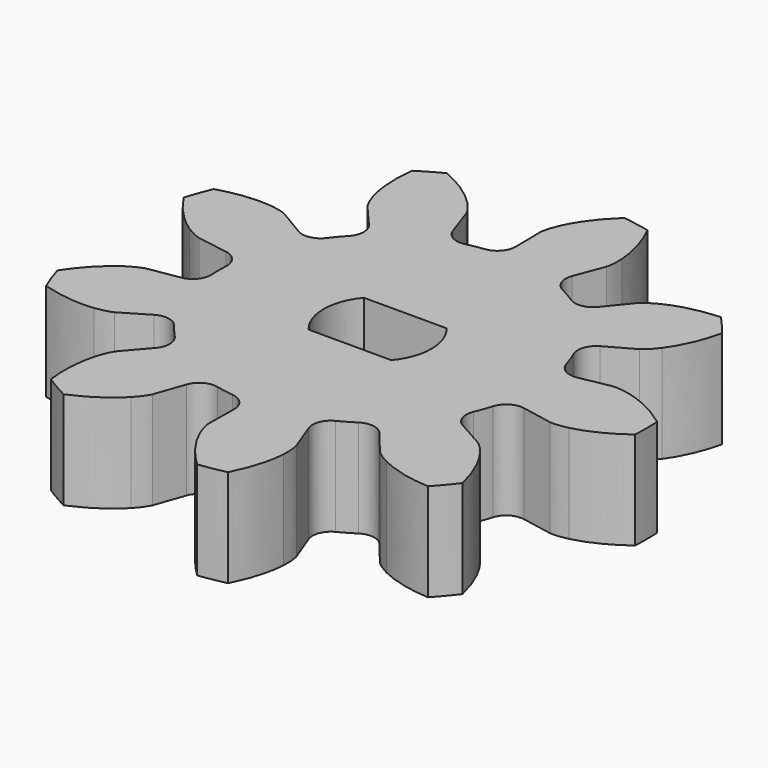
from build123d import *

# Parameters (mm, degrees)
PAD_DEPTH    = 5
POCKET_DEPTH = 5


with BuildPart() as part:
    # InvoluteGear → Pad (new body)
    with BuildSketch(Plane.XY):
        with BuildLine():
            Line((8.852623, -1.69737), (10.420804, -1.995741))
            add(Edge.make_bspline(
                [(10.420804, -1.995741), (10.519573, -2.006112), (10.815555, -2.020759), (11.317457, -1.904677)],
                knots=[0, 0, 0, 0, 1, 1, 1, 1], degree=3))
            add(Edge.make_bspline(
                [(11.317457, -1.904677), (11.912322, -1.762077), (12.752409, -1.436176), (13.735982, -0.706051)],
                knots=[0, 0, 0, 0, 1, 1, 1, 1], degree=3))
            ThreePointArc((13.735982, -0.706051), (13.754121, 0), (13.735982, 0.706051))
            add(Edge.make_bspline(
                [(13.735982, 0.706051), (12.752409, 1.436176), (11.912322, 1.762077), (11.317457, 1.904677)],
                knots=[0, 0, 0, 0, 1, 1, 1, 1], degree=3))
            add(Edge.make_bspline(
                [(11.317457, 1.904677), (10.815555, 2.020759), (10.519573, 2.006112), (10.420804, 1.995741)],
                knots=[0, 0, 0, 0, 1, 1, 1, 1], degree=3))
            Line((10.420804, 1.995741), (8.852623, 1.69737))
            ThreePointArc((8.852623, 1.69737), (8.192669, 1.814836), (7.779854, 2.342966))
            ThreePointArc((7.779854, 2.342966), (7.635003, 2.778914), (7.465744, 3.205978))
            ThreePointArc((7.465744, 3.205978), (7.442503, 3.875901), (7.872551, 4.390096))
            Line((7.872551, 4.390096), (9.265636, 5.169537))
            add(Edge.make_bspline(
                [(9.265636, 5.169537), (9.347965, 5.22508), (9.584115, 5.404113), (9.893977, 5.815654)],
                knots=[0, 0, 0, 0, 1, 1, 1, 1], degree=3))
            add(Edge.make_bspline(
                [(9.893977, 5.815654), (10.258009, 6.307264), (10.692068, 7.096916), (10.976213, 8.288452)],
                knots=[0, 0, 0, 0, 1, 1, 1, 1], degree=3))
            ThreePointArc((10.976213, 8.288452), (10.536268, 8.840979), (10.068531, 9.370185))
            add(Edge.make_bspline(
                [(10.068531, 9.370185), (8.845756, 9.297265), (7.992727, 9.006922), (7.445372, 8.733788)],
                knots=[0, 0, 0, 0, 1, 1, 1, 1], degree=3))
            add(Edge.make_bspline(
                [(7.445372, 8.733788), (6.986277, 8.500096), (6.768956, 8.298623), (6.699961, 8.22719)],
                knots=[0, 0, 0, 0, 1, 1, 1, 1], degree=3))
            Line((6.699961, 8.22719), (5.690454, 6.990617))
            ThreePointArc((5.690454, 6.990617), (5.109395, 6.656392), (4.453685, 6.79561))
            ThreePointArc((4.453685, 6.79561), (4.0625, 7.036456), (3.658329, 7.254809))
            ThreePointArc((3.658329, 7.254809), (3.209907, 7.753061), (3.208825, 8.423387))
            Line((3.208825, 8.423387), (3.774975, 9.915932))
            add(Edge.make_bspline(
                [(3.774975, 9.915932), (3.80234, 10.011399), (3.868161, 10.300341), (3.840996, 10.814775)],
                knots=[0, 0, 0, 0, 1, 1, 1, 1], degree=3))
            add(Edge.make_bspline(
                [(3.840996, 10.814775), (3.80386, 11.425366), (3.62879, 12.309282), (3.080553, 13.404697)],
                knots=[0, 0, 0, 0, 1, 1, 1, 1], degree=3))
            ThreePointArc((3.080553, 13.404697), (2.388378, 13.545165), (1.689904, 13.649906))
            add(Edge.make_bspline(
                [(1.689904, 13.649906), (0.800076, 12.808061), (0.333246, 12.037328), (0.089515, 11.476263)],
                knots=[0, 0, 0, 0, 1, 1, 1, 1], degree=3))
            add(Edge.make_bspline(
                [(0.089515, 11.476263), (-0.111958, 11.002143), (-0.14893, 10.708115), (-0.155867, 10.609045)],
                knots=[0, 0, 0, 0, 1, 1, 1, 1], degree=3))
            Line((-0.155867, 10.609045), (-0.134341, 9.012877))
            ThreePointArc((-0.134341, 9.012877), (-0.364623, 8.383347), (-0.956414, 8.068513))
            ThreePointArc((-0.956414, 8.068513), (-1.410891, 8.001563), (-1.860859, 7.909035))
            ThreePointArc((-1.860859, 7.909035), (-2.52464, 8.002478), (-2.956346, 8.515281))
            Line((-2.956346, 8.515281), (-3.48204, 10.022551))
            add(Edge.make_bspline(
                [(-3.48204, 10.022551), (-3.522442, 10.113274), (-3.657749, 10.376925), (-4.00923, 10.753543)],
                knots=[0, 0, 0, 0, 1, 1, 1, 1], degree=3))
            add(Edge.make_bspline(
                [(-4.00923, 10.753543), (-4.430158, 11.197412), (-5.13244, 11.761998), (-6.256533, 12.248735)],
                knots=[0, 0, 0, 0, 1, 1, 1, 1], degree=3))
            ThreePointArc((-6.256533, 12.248735), (-6.877061, 11.911418), (-7.479449, 11.542683))
            add(Edge.make_bspline(
                [(-7.479449, 11.542683), (-7.619969, 10.325822), (-7.482164, 9.435335), (-7.308227, 8.848867)],
                knots=[0, 0, 0, 0, 1, 1, 1, 1], degree=3))
            add(Edge.make_bspline(
                [(-7.308227, 8.848867), (-7.157806, 8.356166), (-6.997131, 8.107161), (-6.938764, 8.026811)],
                knots=[0, 0, 0, 0, 1, 1, 1, 1], degree=3))
            Line((-6.938764, 8.026811), (-5.896277, 6.817911))
            ThreePointArc((-5.896277, 6.817911), (-5.668029, 6.187642), (-5.918995, 5.566069))
            ThreePointArc((-5.918995, 5.566069), (-6.224111, 5.222649), (-6.50933, 4.862535))
            ThreePointArc((-6.50933, 4.862535), (-7.07788, 4.507446), (-7.73821, 4.622782))
            Line((-7.73821, 4.622782), (-9.109769, 5.439508))
            add(Edge.make_bspline(
                [(-9.109769, 5.439508), (-9.199034, 5.483035), (-9.472157, 5.59803), (-9.983493, 5.660609)],
                knots=[0, 0, 0, 0, 1, 1, 1, 1], degree=3))
            add(Edge.make_bspline(
                [(-9.983493, 5.660609), (-10.591255, 5.730064), (-11.492144, 5.711145), (-12.666117, 5.361453)],
                knots=[0, 0, 0, 0, 1, 1, 1, 1], degree=3))
            ThreePointArc((-12.666117, 5.361453), (-12.924646, 4.704186), (-13.149084, 4.034511))
            add(Edge.make_bspline(
                [(-13.149084, 4.034511), (-12.474546, 3.012017), (-11.796587, 2.418444), (-11.286368, 2.080988)],
                knots=[0, 0, 0, 0, 1, 1, 1, 1], degree=3))
            add(Edge.make_bspline(
                [(-11.286368, 2.080988), (-10.854437, 1.800245), (-10.571296, 1.712777), (-10.474936, 1.688742)],
                knots=[0, 0, 0, 0, 1, 1, 1, 1], degree=3))
            Line((-10.474936, 1.688742), (-8.899279, 1.432769))
            ThreePointArc((-8.899279, 1.432769), (-8.319302, 1.09667), (-8.112013, 0.459199))
            ThreePointArc((-8.112013, 0.459199), (-8.125, 0), (-8.112013, -0.459199))
            ThreePointArc((-8.112013, -0.459199), (-8.319302, -1.09667), (-8.899279, -1.432769))
            Line((-8.899279, -1.432769), (-10.474936, -1.688742))
            add(Edge.make_bspline(
                [(-10.474936, -1.688742), (-10.571296, -1.712777), (-10.854437, -1.800245), (-11.286368, -2.080988)],
                knots=[0, 0, 0, 0, 1, 1, 1, 1], degree=3))
            add(Edge.make_bspline(
                [(-11.286368, -2.080988), (-11.796587, -2.418444), (-12.474546, -3.012017), (-13.149084, -4.034511)],
                knots=[0, 0, 0, 0, 1, 1, 1, 1], degree=3))
            ThreePointArc((-13.149084, -4.034511), (-12.924646, -4.704186), (-12.666117, -5.361453))
            add(Edge.make_bspline(
                [(-12.666117, -5.361453), (-11.492144, -5.711145), (-10.591255, -5.730064), (-9.983493, -5.660609)],
                knots=[0, 0, 0, 0, 1, 1, 1, 1], degree=3))
            add(Edge.make_bspline(
                [(-9.983493, -5.660609), (-9.472157, -5.59803), (-9.199034, -5.483035), (-9.109769, -5.439508)],
                knots=[0, 0, 0, 0, 1, 1, 1, 1], degree=3))
            Line((-9.109769, -5.439508), (-7.73821, -4.622782))
            ThreePointArc((-7.73821, -4.622782), (-7.07788, -4.507446), (-6.50933, -4.862535))
            ThreePointArc((-6.50933, -4.862535), (-6.224111, -5.222649), (-5.918995, -5.566069))
            ThreePointArc((-5.918995, -5.566069), (-5.668029, -6.187642), (-5.896277, -6.817911))
            Line((-5.896277, -6.817911), (-6.938764, -8.026811))
            add(Edge.make_bspline(
                [(-6.938764, -8.026811), (-6.997131, -8.107161), (-7.157806, -8.356166), (-7.308227, -8.848867)],
                knots=[0, 0, 0, 0, 1, 1, 1, 1], degree=3))
            add(Edge.make_bspline(
                [(-7.308227, -8.848867), (-7.482164, -9.435335), (-7.619969, -10.325822), (-7.479449, -11.542683)],
                knots=[0, 0, 0, 0, 1, 1, 1, 1], degree=3))
            ThreePointArc((-7.479449, -11.542683), (-6.877061, -11.911418), (-6.256533, -12.248735))
            add(Edge.make_bspline(
                [(-6.256533, -12.248735), (-5.13244, -11.761998), (-4.430158, -11.197412), (-4.00923, -10.753543)],
                knots=[0, 0, 0, 0, 1, 1, 1, 1], degree=3))
            add(Edge.make_bspline(
                [(-4.00923, -10.753543), (-3.657749, -10.376925), (-3.522442, -10.113274), (-3.48204, -10.022551)],
                knots=[0, 0, 0, 0, 1, 1, 1, 1], degree=3))
            Line((-3.48204, -10.022551), (-2.956346, -8.515281))
            ThreePointArc((-2.956346, -8.515281), (-2.52464, -8.002478), (-1.860859, -7.909035))
            ThreePointArc((-1.860859, -7.909035), (-1.410891, -8.001563), (-0.956414, -8.068513))
            ThreePointArc((-0.956414, -8.068513), (-0.364623, -8.383347), (-0.134341, -9.012877))
            Line((-0.134341, -9.012877), (-0.155867, -10.609045))
            add(Edge.make_bspline(
                [(-0.155867, -10.609045), (-0.14893, -10.708115), (-0.111958, -11.002143), (0.089515, -11.476263)],
                knots=[0, 0, 0, 0, 1, 1, 1, 1], degree=3))
            add(Edge.make_bspline(
                [(0.089515, -11.476263), (0.333246, -12.037328), (0.800076, -12.808061), (1.689904, -13.649906)],
                knots=[0, 0, 0, 0, 1, 1, 1, 1], degree=3))
            ThreePointArc((1.689904, -13.649906), (2.388378, -13.545165), (3.080553, -13.404697))
            add(Edge.make_bspline(
                [(3.080553, -13.404697), (3.62879, -12.309282), (3.80386, -11.425366), (3.840996, -10.814775)],
                knots=[0, 0, 0, 0, 1, 1, 1, 1], degree=3))
            add(Edge.make_bspline(
                [(3.840996, -10.814775), (3.868161, -10.300341), (3.80234, -10.011399), (3.774975, -9.915932)],
                knots=[0, 0, 0, 0, 1, 1, 1, 1], degree=3))
            Line((3.774975, -9.915932), (3.208825, -8.423387))
            ThreePointArc((3.208825, -8.423387), (3.209907, -7.753061), (3.658329, -7.254809))
            ThreePointArc((3.658329, -7.254809), (4.0625, -7.036456), (4.453685, -6.79561))
            ThreePointArc((4.453685, -6.79561), (5.109395, -6.656392), (5.690454, -6.990617))
            Line((5.690454, -6.990617), (6.699961, -8.22719))
            add(Edge.make_bspline(
                [(6.699961, -8.22719), (6.768956, -8.298623), (6.986277, -8.500096), (7.445372, -8.733788)],
                knots=[0, 0, 0, 0, 1, 1, 1, 1], degree=3))
            add(Edge.make_bspline(
                [(7.445372, -8.733788), (7.992727, -9.006922), (8.845756, -9.297265), (10.068531, -9.370185)],
                knots=[0, 0, 0, 0, 1, 1, 1, 1], degree=3))
            ThreePointArc((10.068531, -9.370185), (10.536268, -8.840979), (10.976213, -8.288452))
            add(Edge.make_bspline(
                [(10.976213, -8.288452), (10.692068, -7.096916), (10.258009, -6.307264), (9.893977, -5.815654)],
                knots=[0, 0, 0, 0, 1, 1, 1, 1], degree=3))
            add(Edge.make_bspline(
                [(9.893977, -5.815654), (9.584115, -5.404113), (9.347965, -5.22508), (9.265636, -5.169537)],
                knots=[0, 0, 0, 0, 1, 1, 1, 1], degree=3))
            Line((9.265636, -5.169537), (7.872551, -4.390096))
            ThreePointArc((7.872551, -4.390096), (7.442503, -3.875901), (7.465744, -3.205978))
            ThreePointArc((7.465744, -3.205978), (7.635003, -2.778914), (7.779854, -2.342966))
            ThreePointArc((7.779854, -2.342966), (8.192669, -1.814836), (8.852623, -1.69737))
        make_face()
    extrude(amount=PAD_DEPTH)

    # Sketch → Pocket (cut)
    with BuildSketch(Plane.XY.offset(5)):
        with BuildLine():
            ThreePointArc((-2.116965, 1.765714), (-2.75668, 0), (-2.116965, -1.765714))
            Line((2.116965, -1.765714), (-2.116965, -1.765714))
            ThreePointArc((2.116965, -1.765714), (2.75668, 0), (2.116965, 1.765714))
            Line((-2.116965, 1.765714), (2.116965, 1.765714))
        make_face()
    extrude(amount=-POCKET_DEPTH, mode=Mode.SUBTRACT)


solid = part.part
